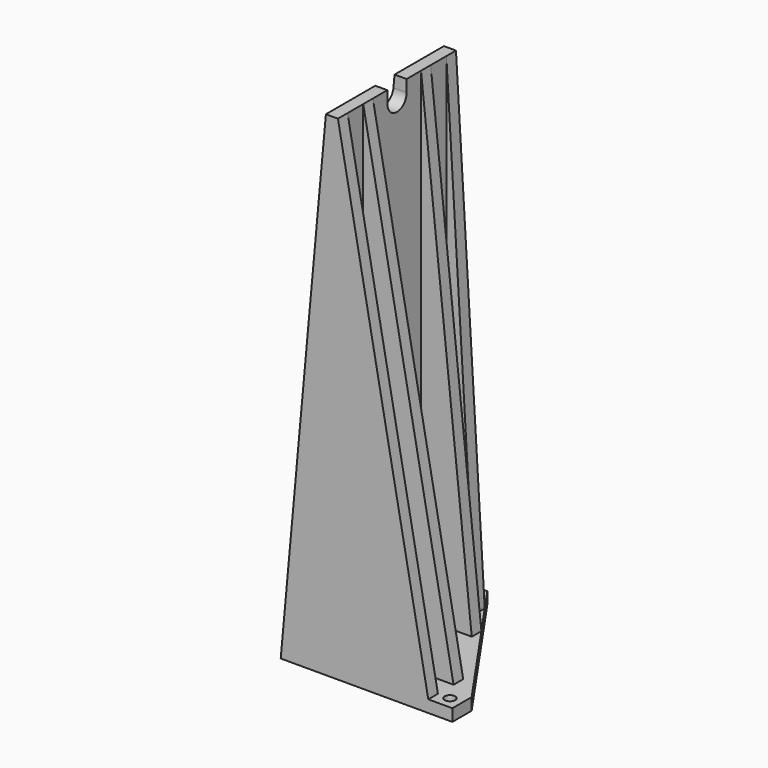
from build123d import *

# Parameters (mm, degrees)
F0_R      = 1.75
F1_DEPTH  = 4
F3_DEPTH  = 160
F5_DEPTH  = 49
F7_DEPTH  = 19.001
F9_DEPTH  = 14.5
F11_DEPTH = 4
F13_DEPTH = 4


with BuildPart() as f1:
    # F0 (on Top) → F1 (new body)
    with BuildSketch(Plane.XY):
        Polygon((-38, -4), (4, -4), (4, 4), (-30, 53), (-38, 53), align=None)
        Circle(F0_R, mode=Mode.SUBTRACT)
        with Locations((-34, 49)):
            Circle(F0_R, mode=Mode.SUBTRACT)
    extrude(amount=F1_DEPTH)

    # F2 (on face) → F3 (join)
    with BuildSketch(Plane.XY.offset(4)):
        Polygon((-24.44898, 45), (-38, 45), (-38, -4), (-4, -4), (-4, 0), (-34, 0), (-34, 6.5), (-4, 6.5), (-4, 10.5), (-34, 10.5), (-34, 30.5), (-17.163265, 30.5), (-17.163265, 34.5), (-34, 34.5), (-34, 41), (-24.44898, 41), align=None)
    extrude(amount=F3_DEPTH)

    # F4 (on face) → F5 (join, through all)
    with BuildSketch(Plane.XZ.offset(4)):
        Polygon((-53, 0), (-38, 0), (-38, 164), align=None)
    extrude(amount=-F5_DEPTH)

    # F6 (on face) → F7 (cut, through all)
    with BuildSketch(Plane.YZ.offset(-34)):
        with BuildLine():
            Line((16.5, 164), (16.5, 160))
            ThreePointArc((16.5, 160), (20.5, 156), (24.5, 160))
            Line((24.5, 160), (24.5, 164))
            ThreePointArc((24.5, 164), (20.5, 168), (16.5, 164))
        make_face()
    extrude(amount=-F7_DEPTH, mode=Mode.SUBTRACT)

    # F8 (on face) → F9 (cut, through all)
    with BuildSketch(Plane.XZ.offset(4)):
        Polygon((-34, 164), (-4, 4), (-4, 164), align=None)
    extrude(amount=-F9_DEPTH, mode=Mode.SUBTRACT)

    # F10 (on face) → F11 (cut, through all)
    with BuildSketch(Plane.XZ.offset(-30.5)):
        Polygon((-17.163265, 164), (-34, 164), (-17.163265, 4), align=None)
    extrude(amount=-F11_DEPTH, mode=Mode.SUBTRACT)

    # F12 (on face) → F13 (cut, through all)
    with BuildSketch(Plane.XZ.offset(-41)):
        Polygon((-34, 164), (-24.44898, 4), (-24.44898, 164), align=None)
    extrude(amount=-F13_DEPTH, mode=Mode.SUBTRACT)


solid = f1.part
